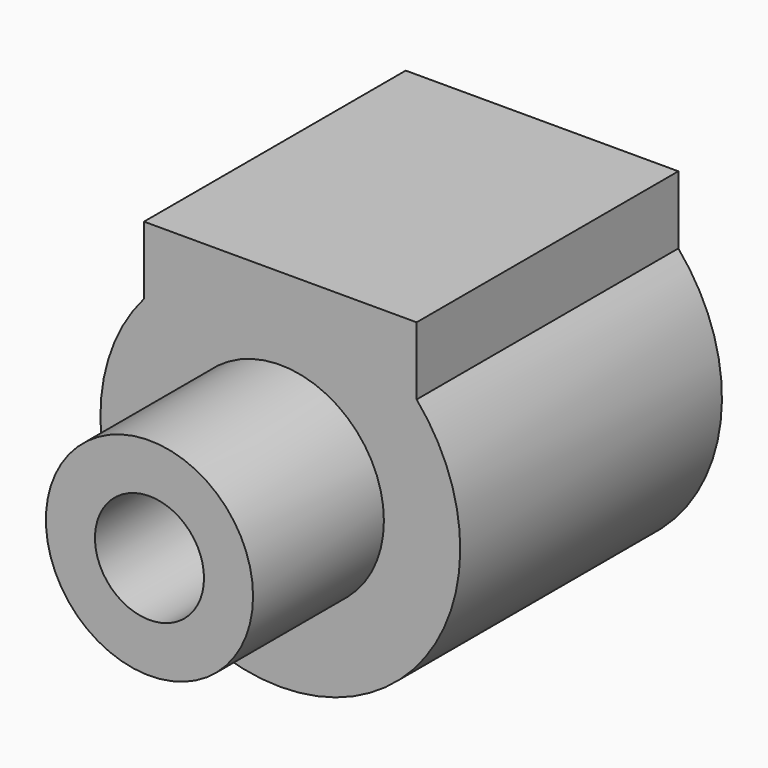
from build123d import *

# Parameters (mm, degrees)
F0_R     = 16.5
F1_DEPTH = 30
F2_W     = 12.5
F2_H     = 30
F3_DEPTH = 17
F4_R     = 9.5
F5_DEPTH = 15
F6_R     = 10.5
F7_DEPTH = 15
F8_R     = 5
F9_DEPTH = 77


with BuildPart() as f1:
    # F0 (on Front) → F1 (new body)
    with BuildSketch(Plane.XZ):
        Circle(F0_R)
    extrude(amount=F1_DEPTH)

    # F2 (on Top) → F3 (join)
    with BuildSketch(Plane.XY):
        with Locations((6.25, -15)):
            Rectangle(F2_W, F2_H)
        with Locations((-6.25, -15)):
            Rectangle(F2_W, F2_H)
    extrude(amount=F3_DEPTH)

    # F4 (on face) → F5 (join)
    with BuildSketch(Plane.XZ.offset(30)):
        Circle(F4_R)
    extrude(amount=F5_DEPTH)

    # F6 (on Front) → F7 (cut)
    with BuildSketch(Plane.XZ):
        Circle(F6_R)
    extrude(amount=F7_DEPTH, mode=Mode.SUBTRACT)

    # F8 (on face) → F9 (cut)
    with BuildSketch(Plane.XZ.offset(45)):
        Circle(F8_R)
    extrude(amount=-F9_DEPTH, mode=Mode.SUBTRACT)


solid = f1.part
